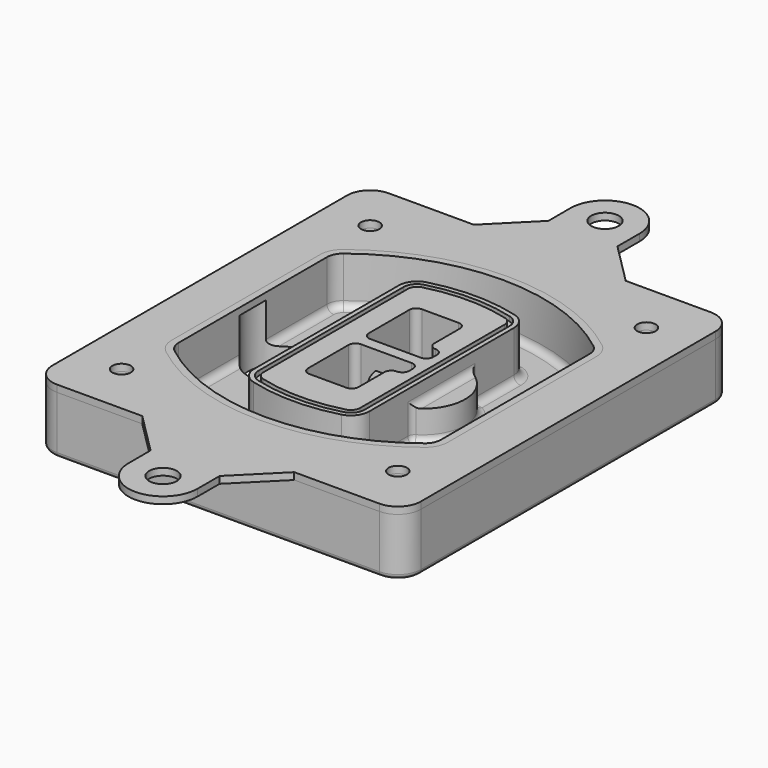
from build123d import *

# Parameters (mm, degrees)
F0_R      = 4
F1_DEPTH  = 25
F2_DEPTH  = 3
F3_DEPTH  = 18
F5_DEPTH  = 21
F6_DEPTH  = 2
F8_DEPTH  = 20
F9_DEPTH  = 16
F10_DEPTH = 25
F7_R      = 6
F7_R_2    = 4
F11_DEPTH = 6
F13_DEPTH = 9
F14_R     = 3
F15_R     = 2
F16_R     = 6
F16_R_2   = 4
F17_DEPTH = 3


with BuildPart() as f1:
    # F0 (on Top) → F1 (new body)
    with BuildSketch(Plane.XY):
        with BuildLine():
            ThreePointArc((-80, -80), (-77.0710678119, -87.0710678119), (-70, -90))
            Line((-70, -90), (70, -90))
            ThreePointArc((70, -90), (77.0710678119, -87.0710678119), (80, -80))
            Line((80, -80), (80, 80))
            ThreePointArc((80, 80), (77.0710678119, 87.0710678119), (70, 90))
            Line((70, 90), (-70, 90))
            ThreePointArc((-70, 90), (-77.0710678119, 87.0710678119), (-80, 80))
            Line((-80, 80), (-80, -80))
        make_face()
        with Locations((-60, -67.5)):
            Circle(F0_R, mode=Mode.SUBTRACT)
        with Locations((60, -67.5)):
            Circle(F0_R, mode=Mode.SUBTRACT)
        with Locations((-60, 67.5)):
            Circle(F0_R, mode=Mode.SUBTRACT)
        with BuildLine():
            ThreePointArc((-64, 40.2934422872), (-62.5820384798, 46.4328484224), (-58.6153846154, 51.3286200352))
            ThreePointArc((-58.6153846154, 51.3286200352), (0, 71.5), (58.6153846154, 51.3286200352))
            ThreePointArc((58.6153846154, 51.3286200352), (62.5820384798, 46.4328484224), (64, 40.2934422872))
            Line((64, 40.2934422872), (64, -40.2934422872))
            ThreePointArc((64, -40.2934422872), (62.5820384798, -46.4328484224), (58.6153846154, -51.3286200352))
            ThreePointArc((58.6153846154, -51.3286200352), (0, -71.5), (-58.6153846154, -51.3286200352))
            ThreePointArc((-58.6153846154, -51.3286200352), (-62.5820384798, -46.4328484224), (-64, -40.2934422872))
            Line((-64, -40.2934422872), (-64, 40.2934422872))
        make_face(mode=Mode.SUBTRACT)
        with Locations((60, 67.5)):
            Circle(F0_R, mode=Mode.SUBTRACT)
        with BuildLine():
            ThreePointArc((58.6153846154, 51.3286200352), (0, 71.5), (-58.6153846154, 51.3286200352))
            ThreePointArc((-58.6153846154, 51.3286200352), (-62.5820384798, 46.4328484224), (-64, 40.2934422872))
            Line((-64, 40.2934422872), (-64, -40.2934422872))
            ThreePointArc((-64, -40.2934422872), (-62.5820384798, -46.4328484224), (-58.6153846154, -51.3286200352))
            ThreePointArc((-58.6153846154, -51.3286200352), (0, -71.5), (58.6153846154, -51.3286200352))
            ThreePointArc((58.6153846154, -51.3286200352), (62.5820384798, -46.4328484224), (64, -40.2934422872))
            Line((64, -40.2934422872), (64, 40.2934422872))
            ThreePointArc((64, 40.2934422872), (62.5820384798, 46.4328484224), (58.6153846154, 51.3286200352))
        make_face()
        with BuildLine():
            Line((-60, -40.2934422872), (-60, 40.2934422872))
            ThreePointArc((-60, 40.2934422872), (-58.9871703427, 44.6787323838), (-56.1538461538, 48.1757121072))
            ThreePointArc((-56.1538461538, 48.1757121072), (0, 67.5), (56.1538461538, 48.1757121072))
            ThreePointArc((56.1538461538, 48.1757121072), (58.9871703427, 44.6787323838), (60, 40.2934422872))
            Line((60, 40.2934422872), (60, -40.2934422872))
            ThreePointArc((60, -40.2934422872), (58.9871703427, -44.6787323838), (56.1538461538, -48.1757121072))
            ThreePointArc((56.1538461538, -48.1757121072), (0, -67.5), (-56.1538461538, -48.1757121072))
            ThreePointArc((-56.1538461538, -48.1757121072), (-58.9871703427, -44.6787323838), (-60, -40.2934422872))
        make_face(mode=Mode.SUBTRACT)
        with BuildLine():
            ThreePointArc((-56.1538461538, 48.1757121072), (-58.9871703427, 44.6787323838), (-60, 40.2934422872))
            Line((-60, 40.2934422872), (-60, -40.2934422872))
            ThreePointArc((-60, -40.2934422872), (-58.9871703427, -44.6787323838), (-56.1538461538, -48.1757121072))
            ThreePointArc((-56.1538461538, -48.1757121072), (0, -67.5), (56.1538461538, -48.1757121072))
            ThreePointArc((56.1538461538, -48.1757121072), (58.9871703427, -44.6787323838), (60, -40.2934422872))
            Line((60, -40.2934422872), (60, 40.2934422872))
            ThreePointArc((60, 40.2934422872), (58.9871703427, 44.6787323838), (56.1538461538, 48.1757121072))
            ThreePointArc((56.1538461538, 48.1757121072), (0, 67.5), (-56.1538461538, 48.1757121072))
        make_face()
        with BuildLine():
            ThreePointArc((54.3076923077, 45.8110311612), (56.2910192399, 43.3631453548), (57, 40.2934422872))
            Line((57, 40.2934422872), (57, -40.2934422872))
            ThreePointArc((57, -40.2934422872), (56.2910192399, -43.3631453548), (54.3076923077, -45.8110311612))
            ThreePointArc((54.3076923077, -45.8110311612), (0, -64.5), (-54.3076923077, -45.8110311612))
            ThreePointArc((-54.3076923077, -45.8110311612), (-56.2910192399, -43.3631453548), (-57, -40.2934422872))
            Line((-57, -40.2934422872), (-57, 40.2934422872))
            ThreePointArc((-57, 40.2934422872), (-56.2910192399, 43.3631453548), (-54.3076923077, 45.8110311612))
            ThreePointArc((-54.3076923077, 45.8110311612), (0, 64.5), (54.3076923077, 45.8110311612))
        make_face(mode=Mode.SUBTRACT)
        with BuildLine():
            Line((57, -40.2934422872), (57, 40.2934422872))
            ThreePointArc((57, 40.2934422872), (56.2910192399, 43.3631453548), (54.3076923077, 45.8110311612))
            ThreePointArc((54.3076923077, 45.8110311612), (0, 64.5), (-54.3076923077, 45.8110311612))
            ThreePointArc((-54.3076923077, 45.8110311612), (-56.2910192399, 43.3631453548), (-57, 40.2934422872))
            Line((-57, 40.2934422872), (-57, -40.2934422872))
            ThreePointArc((-57, -40.2934422872), (-56.2910192399, -43.3631453548), (-54.3076923077, -45.8110311612))
            ThreePointArc((-54.3076923077, -45.8110311612), (0, -64.5), (54.3076923077, -45.8110311612))
            ThreePointArc((54.3076923077, -45.8110311612), (56.2910192399, -43.3631453548), (57, -40.2934422872))
        make_face()
    extrude(amount=-F1_DEPTH)

    # F0 (on Top) → F2 (join)
    with BuildSketch(Plane.XY):
        with BuildLine():
            ThreePointArc((-56.1538461538, 48.1757121072), (-58.9871703427, 44.6787323838), (-60, 40.2934422872))
            Line((-60, 40.2934422872), (-60, -40.2934422872))
            ThreePointArc((-60, -40.2934422872), (-58.9871703427, -44.6787323838), (-56.1538461538, -48.1757121072))
            ThreePointArc((-56.1538461538, -48.1757121072), (0, -67.5), (56.1538461538, -48.1757121072))
            ThreePointArc((56.1538461538, -48.1757121072), (58.9871703427, -44.6787323838), (60, -40.2934422872))
            Line((60, -40.2934422872), (60, 40.2934422872))
            ThreePointArc((60, 40.2934422872), (58.9871703427, 44.6787323838), (56.1538461538, 48.1757121072))
            ThreePointArc((56.1538461538, 48.1757121072), (0, 67.5), (-56.1538461538, 48.1757121072))
        make_face()
        with BuildLine():
            ThreePointArc((54.3076923077, 45.8110311612), (56.2910192399, 43.3631453548), (57, 40.2934422872))
            Line((57, 40.2934422872), (57, -40.2934422872))
            ThreePointArc((57, -40.2934422872), (56.2910192399, -43.3631453548), (54.3076923077, -45.8110311612))
            ThreePointArc((54.3076923077, -45.8110311612), (0, -64.5), (-54.3076923077, -45.8110311612))
            ThreePointArc((-54.3076923077, -45.8110311612), (-56.2910192399, -43.3631453548), (-57, -40.2934422872))
            Line((-57, -40.2934422872), (-57, 40.2934422872))
            ThreePointArc((-57, 40.2934422872), (-56.2910192399, 43.3631453548), (-54.3076923077, 45.8110311612))
            ThreePointArc((-54.3076923077, 45.8110311612), (0, 64.5), (54.3076923077, 45.8110311612))
        make_face(mode=Mode.SUBTRACT)
    extrude(amount=F2_DEPTH)

    # F0 (on Top) → F3 (cut)
    with BuildSketch(Plane.XY):
        with BuildLine():
            Line((57, -40.2934422872), (57, 40.2934422872))
            ThreePointArc((57, 40.2934422872), (56.2910192399, 43.3631453548), (54.3076923077, 45.8110311612))
            ThreePointArc((54.3076923077, 45.8110311612), (0, 64.5), (-54.3076923077, 45.8110311612))
            ThreePointArc((-54.3076923077, 45.8110311612), (-56.2910192399, 43.3631453548), (-57, 40.2934422872))
            Line((-57, 40.2934422872), (-57, -40.2934422872))
            ThreePointArc((-57, -40.2934422872), (-56.2910192399, -43.3631453548), (-54.3076923077, -45.8110311612))
            ThreePointArc((-54.3076923077, -45.8110311612), (0, -64.5), (54.3076923077, -45.8110311612))
            ThreePointArc((54.3076923077, -45.8110311612), (56.2910192399, -43.3631453548), (57, -40.2934422872))
        make_face()
    extrude(amount=-F3_DEPTH, mode=Mode.SUBTRACT)

    # F4 (on face) → F5 (join, through all)
    with BuildSketch(Plane.XY.offset(3)):
        with BuildLine():
            ThreePointArc((-25, -39.2465276821), (-23.3511545998, -44.1109737193), (-19.0842911877, -46.9702398883))
            ThreePointArc((-19.0842911877, -46.9702398883), (0, -49.5), (19.0842911877, -46.9702398883))
            ThreePointArc((19.0842911877, -46.9702398883), (23.3511545998, -44.1109737193), (25, -39.2465276821))
            Line((25, -39.2465276821), (25, 39.2465276821))
            ThreePointArc((25, 39.2465276821), (23.3511545998, 44.1109737193), (19.0842911877, 46.9702398883))
            ThreePointArc((19.0842911877, 46.9702398883), (0, 49.5), (-19.0842911877, 46.9702398883))
            ThreePointArc((-19.0842911877, 46.9702398883), (-23.3511545998, 44.1109737193), (-25, 39.2465276821))
            Line((-25, 39.2465276821), (-25, -39.2465276821))
        make_face()
        with BuildLine():
            ThreePointArc((18.5632183908, 45.0393118368), (21.7633659499, 42.89486221), (23, 39.2465276821))
            Line((23, 39.2465276821), (23, -39.2465276821))
            ThreePointArc((23, -39.2465276821), (21.7633659499, -42.89486221), (18.5632183908, -45.0393118368))
            ThreePointArc((18.5632183908, -45.0393118368), (0, -47.5), (-18.5632183908, -45.0393118368))
            ThreePointArc((-18.5632183908, -45.0393118368), (-21.7633659499, -42.89486221), (-23, -39.2465276821))
            Line((-23, -39.2465276821), (-23, 39.2465276821))
            ThreePointArc((-23, 39.2465276821), (-21.7633659499, 42.89486221), (-18.5632183908, 45.0393118368))
            ThreePointArc((-18.5632183908, 45.0393118368), (0, 47.5), (18.5632183908, 45.0393118368))
        make_face(mode=Mode.SUBTRACT)
        with BuildLine():
            Line((23, -39.2465276821), (23, 39.2465276821))
            ThreePointArc((23, 39.2465276821), (21.7633659499, 42.89486221), (18.5632183908, 45.0393118368))
            ThreePointArc((18.5632183908, 45.0393118368), (0, 47.5), (-18.5632183908, 45.0393118368))
            ThreePointArc((-18.5632183908, 45.0393118368), (-21.7633659499, 42.89486221), (-23, 39.2465276821))
            Line((-23, 39.2465276821), (-23, -39.2465276821))
            ThreePointArc((-23, -39.2465276821), (-21.7633659499, -42.89486221), (-18.5632183908, -45.0393118368))
            ThreePointArc((-18.5632183908, -45.0393118368), (0, -47.5), (18.5632183908, -45.0393118368))
            ThreePointArc((18.5632183908, -45.0393118368), (21.7633659499, -42.89486221), (23, -39.2465276821))
        make_face()
        with BuildLine():
            ThreePointArc((18.0421455939, 43.1083837852), (20.1755772999, 41.6787507007), (21, 39.2465276821))
            Line((21, 39.2465276821), (21, -39.2465276821))
            ThreePointArc((21, -39.2465276821), (20.1755772999, -41.6787507007), (18.0421455939, -43.1083837852))
            ThreePointArc((18.0421455939, -43.1083837852), (0, -45.5), (-18.0421455939, -43.1083837852))
            ThreePointArc((-18.0421455939, -43.1083837852), (-20.1755772999, -41.6787507007), (-21, -39.2465276821))
            Line((-21, -39.2465276821), (-21, 39.2465276821))
            ThreePointArc((-21, 39.2465276821), (-20.1755772999, 41.6787507007), (-18.0421455939, 43.1083837852))
            ThreePointArc((-18.0421455939, 43.1083837852), (0, 45.5), (18.0421455939, 43.1083837852))
        make_face(mode=Mode.SUBTRACT)
        with BuildLine():
            Line((21, -39.2465276821), (21, 39.2465276821))
            ThreePointArc((21, 39.2465276821), (20.1755772999, 41.6787507007), (18.0421455939, 43.1083837852))
            ThreePointArc((18.0421455939, 43.1083837852), (0, 45.5), (-18.0421455939, 43.1083837852))
            ThreePointArc((-18.0421455939, 43.1083837852), (-20.1755772999, 41.6787507007), (-21, 39.2465276821))
            Line((-21, 39.2465276821), (-21, -39.2465276821))
            ThreePointArc((-21, -39.2465276821), (-20.1755772999, -41.6787507007), (-18.0421455939, -43.1083837852))
            ThreePointArc((-18.0421455939, -43.1083837852), (0, -45.5), (18.0421455939, -43.1083837852))
            ThreePointArc((18.0421455939, -43.1083837852), (20.1755772999, -41.6787507007), (21, -39.2465276821))
        make_face()
        with BuildLine():
            Line((-8, -2.5), (14, -2.5))
            ThreePointArc((14, -2.5), (16.1213203436, -3.3786796564), (17, -5.5))
            Line((17, -5.5), (17, -7.5))
            ThreePointArc((17, -7.5), (16.1213203436, -9.6213203436), (14, -10.5))
            ThreePointArc((14, -10.5), (11.8786796564, -11.3786796564), (11, -13.5))
            Line((11, -13.5), (11, -27.5))
            ThreePointArc((11, -27.5), (10.1213203436, -29.6213203436), (8, -30.5))
            Line((8, -30.5), (-8, -30.5))
            ThreePointArc((-8, -30.5), (-10.1213203436, -29.6213203436), (-11, -27.5))
            Line((-11, -27.5), (-11, -5.5))
            ThreePointArc((-11, -5.5), (-10.1213203436, -3.3786796564), (-8, -2.5))
        make_face(mode=Mode.SUBTRACT)
        with BuildLine():
            ThreePointArc((-8, 2.5), (-10.1213203436, 3.3786796564), (-11, 5.5))
            Line((-11, 5.5), (-11, 27.5))
            ThreePointArc((-11, 27.5), (-10.1213203436, 29.6213203436), (-8, 30.5))
            Line((-8, 30.5), (8, 30.5))
            ThreePointArc((8, 30.5), (10.1213203436, 29.6213203436), (11, 27.5))
            Line((11, 27.5), (11, 13.5))
            ThreePointArc((11, 13.5), (11.8786796564, 11.3786796564), (14, 10.5))
            ThreePointArc((14, 10.5), (16.1213203436, 9.6213203436), (17, 7.5))
            Line((17, 7.5), (17, 5.5))
            ThreePointArc((17, 5.5), (16.1213203436, 3.3786796564), (14, 2.5))
            Line((14, 2.5), (-8, 2.5))
        make_face(mode=Mode.SUBTRACT)
    extrude(amount=-F5_DEPTH)

    # F4 (on face) → F6 (cut)
    with BuildSketch(Plane.XY.offset(3)):
        with BuildLine():
            Line((23, -39.2465276821), (23, 39.2465276821))
            ThreePointArc((23, 39.2465276821), (21.7633659499, 42.89486221), (18.5632183908, 45.0393118368))
            ThreePointArc((18.5632183908, 45.0393118368), (0, 47.5), (-18.5632183908, 45.0393118368))
            ThreePointArc((-18.5632183908, 45.0393118368), (-21.7633659499, 42.89486221), (-23, 39.2465276821))
            Line((-23, 39.2465276821), (-23, -39.2465276821))
            ThreePointArc((-23, -39.2465276821), (-21.7633659499, -42.89486221), (-18.5632183908, -45.0393118368))
            ThreePointArc((-18.5632183908, -45.0393118368), (0, -47.5), (18.5632183908, -45.0393118368))
            ThreePointArc((18.5632183908, -45.0393118368), (21.7633659499, -42.89486221), (23, -39.2465276821))
        make_face()
        with BuildLine():
            ThreePointArc((18.0421455939, 43.1083837852), (20.1755772999, 41.6787507007), (21, 39.2465276821))
            Line((21, 39.2465276821), (21, -39.2465276821))
            ThreePointArc((21, -39.2465276821), (20.1755772999, -41.6787507007), (18.0421455939, -43.1083837852))
            ThreePointArc((18.0421455939, -43.1083837852), (0, -45.5), (-18.0421455939, -43.1083837852))
            ThreePointArc((-18.0421455939, -43.1083837852), (-20.1755772999, -41.6787507007), (-21, -39.2465276821))
            Line((-21, -39.2465276821), (-21, 39.2465276821))
            ThreePointArc((-21, 39.2465276821), (-20.1755772999, 41.6787507007), (-18.0421455939, 43.1083837852))
            ThreePointArc((-18.0421455939, 43.1083837852), (0, 45.5), (18.0421455939, 43.1083837852))
        make_face(mode=Mode.SUBTRACT)
    extrude(amount=-F6_DEPTH, mode=Mode.SUBTRACT)

    # F7 (on face) → F8 (join)
    with BuildSketch(Plane(origin=(0, 0, -25), x_dir=(1, 0, 0), z_dir=(0, 0, -1))):
        with BuildLine():
            ThreePointArc((3.28842436, 0), (16.7567035675, 13.4682792075), (30.224982775, 0))
            Line((30.224982775, 0), (35.224982775, 0))
            ThreePointArc((35.224982775, 0), (16.7567035675, 18.4682792075), (-1.71157564, 0))
            Line((-1.71157564, 0), (3.28842436, 0))
        make_face()
        with BuildLine():
            Line((3.28842436, 0), (30.224982775, 0))
            ThreePointArc((30.224982775, 0), (16.7567035675, 13.4682792075), (3.28842436, 0))
        make_face()
        with BuildLine():
            ThreePointArc((3.28842436, 0), (16.7567035675, -13.4682792075), (30.224982775, 0))
            Line((30.224982775, 0), (3.28842436, 0))
        make_face()
        with BuildLine():
            Line((35.224982775, 0), (30.224982775, 0))
            ThreePointArc((30.224982775, 0), (16.7567035675, -13.4682792075), (3.28842436, 0))
            Line((3.28842436, 0), (-1.71157564, 0))
            ThreePointArc((-1.71157564, 0), (16.7567035675, -18.4682792075), (35.224982775, 0))
        make_face()
    extrude(amount=-F8_DEPTH)

    # F7 (on face) → F9 (cut)
    with BuildSketch(Plane(origin=(0, 0, -25), x_dir=(1, 0, 0), z_dir=(0, 0, -1))):
        with BuildLine():
            Line((3.28842436, 0), (30.224982775, 0))
            ThreePointArc((30.224982775, 0), (16.7567035675, 13.4682792075), (3.28842436, 0))
        make_face()
        with BuildLine():
            ThreePointArc((3.28842436, 0), (16.7567035675, -13.4682792075), (30.224982775, 0))
            Line((30.224982775, 0), (3.28842436, 0))
        make_face()
    extrude(amount=-F9_DEPTH, mode=Mode.SUBTRACT)

    # F7 (on face) → F10 (cut)
    with BuildSketch(Plane(origin=(0, 0, -25), x_dir=(1, 0, 0), z_dir=(0, 0, -1))):
        with BuildLine():
            Line((-59.0318229325, 0), (-32.0952645175, 0))
            ThreePointArc((-32.0952645175, 0), (-45.563543725, 13.4682792075), (-59.0318229325, 0))
        make_face()
        with BuildLine():
            ThreePointArc((-59.0318229325, 0), (-45.563543725, -13.4682792075), (-32.0952645175, 0))
            Line((-32.0952645175, 0), (-59.0318229325, 0))
        make_face()
    extrude(amount=-F10_DEPTH, mode=Mode.SUBTRACT)

    # F7 (on face) → F11 (cut)
    with BuildSketch(Plane(origin=(0, 0, -25), x_dir=(1, 0, 0), z_dir=(0, 0, -1))):
        with Locations((60, -67.5)):
            Circle(F7_R)
        with Locations((60, -67.5)):
            Circle(F7_R_2, mode=Mode.SUBTRACT)
        with Locations((60, -67.5)):
            Circle(F7_R)
        with Locations((60, -67.5)):
            Circle(F7_R_2, mode=Mode.SUBTRACT)
        with Locations((-60, -67.5)):
            Circle(F7_R)
        with Locations((-60, -67.5)):
            Circle(F7_R_2, mode=Mode.SUBTRACT)
        with Locations((-60, -67.5)):
            Circle(F7_R)
        with Locations((-60, -67.5)):
            Circle(F7_R_2, mode=Mode.SUBTRACT)
        with Locations((-60, 67.5)):
            Circle(F7_R)
        with Locations((-60, 67.5)):
            Circle(F7_R_2, mode=Mode.SUBTRACT)
        with Locations((-60, 67.5)):
            Circle(F7_R)
        with Locations((-60, 67.5)):
            Circle(F7_R_2, mode=Mode.SUBTRACT)
        with Locations((60, 67.5)):
            Circle(F7_R)
        with Locations((60, 67.5)):
            Circle(F7_R_2, mode=Mode.SUBTRACT)
        with Locations((60, 67.5)):
            Circle(F7_R)
        with Locations((60, 67.5)):
            Circle(F7_R_2, mode=Mode.SUBTRACT)
    extrude(amount=-F11_DEPTH, mode=Mode.SUBTRACT)

    # F12 (on face) → F13 (cut, through all)
    with BuildSketch(Plane(origin=(0, 0, -9), x_dir=(1, 0, 0), z_dir=(0, 0, -1))):
        with BuildLine():
            Line((11, 13.5), (11, 17.5481537753))
            ThreePointArc((11, 17.5481537753), (2.5696536419, 11.8239143813), (-1.5415842455, 2.5))
            Line((-1.5415842455, 2.5), (3.5224848595, 2.5))
            ThreePointArc((3.5224848595, 2.5), (6.1857188154, 8.3455872281), (11.2536447004, 12.2927168648))
            ThreePointArc((11.2536447004, 12.2927168648), (11.0640958889, 12.8831798879), (11, 13.5))
        make_face()
        with BuildLine():
            ThreePointArc((11.2536447004, -12.2927168648), (6.1857188154, -8.3455872281), (3.5224848595, -2.5))
            Line((3.5224848595, -2.5), (-1.5415842455, -2.5))
            ThreePointArc((-1.5415842455, -2.5), (2.5696536419, -11.8239143813), (11, -17.5481537753))
            Line((11, -17.5481537753), (11, -13.5))
            ThreePointArc((11, -13.5), (11.0640958889, -12.8831798879), (11.2536447004, -12.2927168648))
        make_face()
        with BuildLine():
            ThreePointArc((11.2536447004, 12.2927168648), (6.1857188154, 8.3455872281), (3.5224848595, 2.5))
            Line((3.5224848595, 2.5), (14, 2.5))
            ThreePointArc((14, 2.5), (16.1213203436, 3.3786796564), (17, 5.5))
            Line((17, 5.5), (17, 7.5))
            ThreePointArc((17, 7.5), (16.1213203436, 9.6213203436), (14, 10.5))
            ThreePointArc((14, 10.5), (12.3601599782, 10.9878446101), (11.2536447004, 12.2927168648))
        make_face()
        with BuildLine():
            Line((14, -2.5), (3.5224848595, -2.5))
            ThreePointArc((3.5224848595, -2.5), (6.1857188154, -8.3455872281), (11.2536447004, -12.2927168648))
            ThreePointArc((11.2536447004, -12.2927168648), (12.3601599782, -10.9878446101), (14, -10.5))
            ThreePointArc((14, -10.5), (16.1213203436, -9.6213203436), (17, -7.5))
            Line((17, -7.5), (17, -5.5))
            ThreePointArc((17, -5.5), (16.1213203436, -3.3786796564), (14, -2.5))
        make_face()
    extrude(amount=F13_DEPTH, mode=Mode.SUBTRACT)

    # F14
    f14_edges = [f1.edges().sort_by_distance(p)[0] for p in [
        (-57, -23.703476, -18),
        (-57, 23.703476, -18),
        (25, 0, -5),
        (25, 16.526506, -11.5),
        (25, -16.526506, -11.5),
        (25, -27.886517, -18),
        (35.224983, 0, -18),
    ]]
    fillet(f14_edges, radius=F14_R)

    # F15
    f15_edges = [f1.edges().sort_by_distance(p)[0] for p in [
        (0, -90, -25),
    ]]
    fillet(f15_edges, radius=F15_R)


with BuildPart() as f17:
    # F16 (on face) → F17 (new body, through all)
    with BuildSketch(Plane.XY):
        with BuildLine():
            Line((-15, 108), (-33, 90))
            Line((-33, 90), (33, 90))
            Line((33, 90), (15, 108))
            Line((15, 108), (15, 120))
            ThreePointArc((15, 120), (0, 135), (-15, 120))
            Line((-15, 120), (-15, 108))
        make_face()
        with Locations((0, 120)):
            Circle(F16_R, mode=Mode.SUBTRACT)
        with BuildLine():
            Line((33, -90), (-33, -90))
            Line((-33, -90), (-15, -108))
            Line((-15, -108), (-15, -120))
            ThreePointArc((-15, -120), (0, -135), (15, -120))
            Line((15, -120), (15, -108))
            Line((15, -108), (33, -90))
        make_face()
        with Locations((0, -120)):
            Circle(F16_R, mode=Mode.SUBTRACT)
        with BuildLine():
            Line((33, 90), (-33, 90))
            Line((-33, 90), (-70, 90))
            ThreePointArc((-70, 90), (-77.0710678119, 87.0710678119), (-80, 80))
            Line((-80, 80), (-80, -80))
            ThreePointArc((-80, -80), (-77.0710678119, -87.0710678119), (-70, -90))
            Line((-70, -90), (-33, -90))
            Line((-33, -90), (33, -90))
            Line((33, -90), (70, -90))
            ThreePointArc((70, -90), (77.0710678119, -87.0710678119), (80, -80))
            Line((80, -80), (80, 80))
            ThreePointArc((80, 80), (77.0710678119, 87.0710678119), (70, 90))
            Line((70, 90), (33, 90))
        make_face()
        with Locations((-60, -67.5)):
            Circle(F16_R_2, mode=Mode.SUBTRACT)
        with BuildLine():
            ThreePointArc((-60, 40.2934422872), (-58.9871703427, 44.6787323838), (-56.1538461538, 48.1757121072))
            ThreePointArc((-56.1538461538, 48.1757121072), (0, 67.5), (56.1538461538, 48.1757121072))
            ThreePointArc((56.1538461538, 48.1757121072), (58.9871703427, 44.6787323838), (60, 40.2934422872))
            Line((60, 40.2934422872), (60, -40.2934422872))
            ThreePointArc((60, -40.2934422872), (58.9871703427, -44.6787323838), (56.1538461538, -48.1757121072))
            ThreePointArc((56.1538461538, -48.1757121072), (0, -67.5), (-56.1538461538, -48.1757121072))
            ThreePointArc((-56.1538461538, -48.1757121072), (-58.9871703427, -44.6787323838), (-60, -40.2934422872))
            Line((-60, -40.2934422872), (-60, 40.2934422872))
        make_face(mode=Mode.SUBTRACT)
        with Locations((60, -67.5)):
            Circle(F16_R_2, mode=Mode.SUBTRACT)
        with Locations((-60, 67.5)):
            Circle(F16_R_2, mode=Mode.SUBTRACT)
        with Locations((60, 67.5)):
            Circle(F16_R_2, mode=Mode.SUBTRACT)
    extrude(amount=F17_DEPTH)


solid = Compound([f1.part, f17.part])
